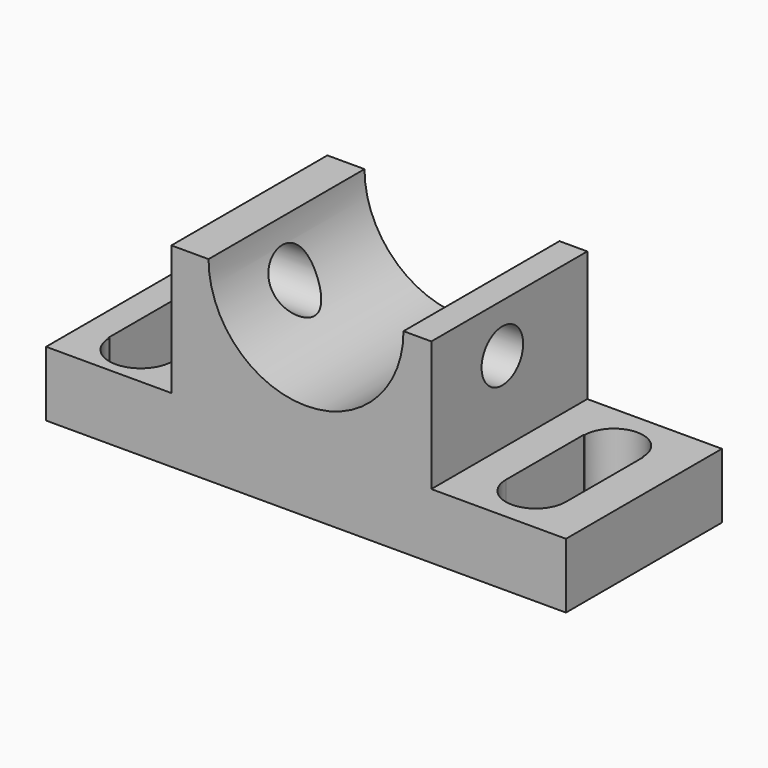
from build123d import *

# Parameters (mm, degrees)
F1_DEPTH = 600
F2_R     = 80
F3_DEPTH = 1185.644113
F6_DEPTH = 200.001


with BuildPart() as f1:
    # F0 (on Front) → F1 (new body)
    with BuildSketch(Plane.XZ):
        with BuildLine():
            Line((-800, -300), (800, -300))
            Line((800, -300), (800, -100))
            Line((800, -100), (385.643113, -100))
            Line((385.643113, -100), (385.643113, 300))
            Line((385.643113, 300), (300, 300))
            ThreePointArc((300, 300), (0, 0), (-300, 300))
            Line((-300, 300), (-414.356887, 300))
            Line((-414.356887, 300), (-414.356887, -100))
            Line((-414.356887, -100), (-800, -100))
            Line((-800, -100), (-800, -300))
        make_face()
    extrude(amount=F1_DEPTH)

    # F2 (on face) → F3 (cut, through all)
    with BuildSketch(Plane.YZ.offset(385.643113)):
        with Locations((-326.723337, 150)):
            Circle(F2_R)
    extrude(amount=-F3_DEPTH, mode=Mode.SUBTRACT)

    # F5 (on face) → F6 (cut, through all)
    with BuildSketch(Plane.XY.offset(-100)):
        with BuildLine():
            Line((679.844578, -450.278306), (679.844578, -150.278306))
            Line((679.844578, -150.278306), (677.441342, -150.278306))
            ThreePointArc((677.441342, -150.278306), (587.536824, -60.373787), (497.632305, -150.278306))
            Line((497.632305, -150.278306), (495.22907, -150.278306))
            Line((495.22907, -150.278306), (495.22907, -450.278306))
            ThreePointArc((495.22907, -450.278306), (587.536824, -542.58606), (679.844578, -450.278306))
        make_face()
        with BuildLine():
            Line((-512.387931, -469.733909), (-512.387931, -169.733909))
            Line((-512.387931, -169.733909), (-519.35312, -169.733909))
            ThreePointArc((-519.35312, -169.733909), (-612.463176, -76.623852), (-705.573233, -169.733909))
            Line((-705.573233, -169.733909), (-712.538421, -169.733909))
            Line((-712.538421, -169.733909), (-712.538421, -469.733909))
            Line((-712.538421, -469.733909), (-709.608744, -469.733909))
            ThreePointArc((-709.608744, -469.733909), (-612.463176, -566.879477), (-515.317608, -469.733909))
            Line((-515.317608, -469.733909), (-512.387931, -469.733909))
        make_face()
    extrude(amount=-F6_DEPTH, mode=Mode.SUBTRACT)


solid = f1.part
